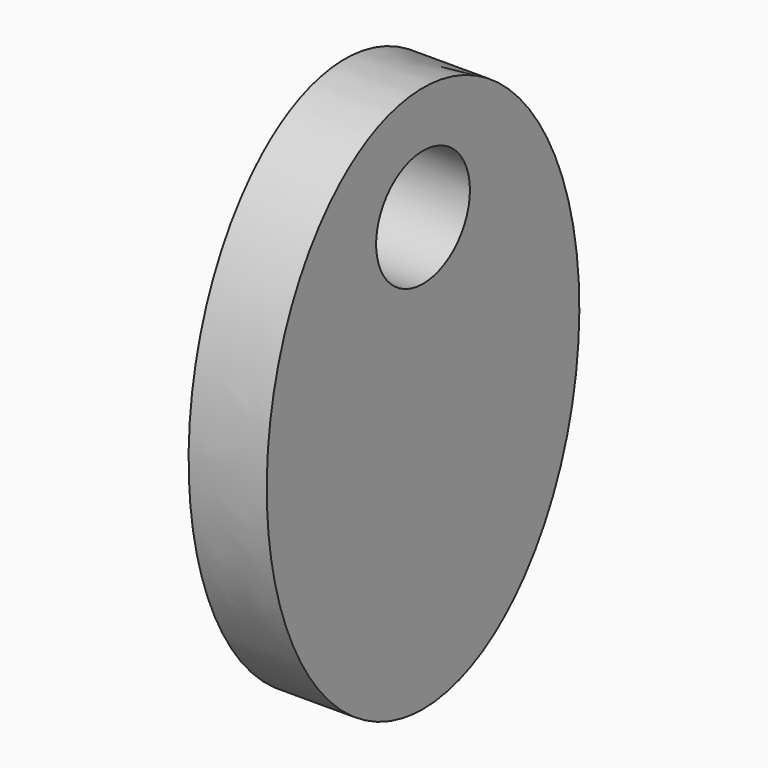
from build123d import *

# Parameters (mm, degrees)
F0_R     = 1.5
F1_DEPTH = 2


with BuildPart() as f1:
    # F0 (on Right) → F1 (new body)
    with BuildSketch(Plane.YZ):
        with BuildLine():
            add(Edge.make_bspline(
                [(0, -11.082631), (8.660254, -11.082631), (4.330127, -0.582631), (0, 9.917369), (-4.330127, -0.582631), (-8.660254, -11.082631), (0, -11.082631)],
                knots=[0, 0, 0, 2.094395, 2.094395, 4.18879, 4.18879, 6.283185, 6.283185, 6.283185], degree=2, weights=[1, 0.5, 1, 0.5, 1, 0.5, 1]))
        make_face()
        Circle(F0_R, mode=Mode.SUBTRACT)
    extrude(amount=F1_DEPTH)


solid = f1.part
